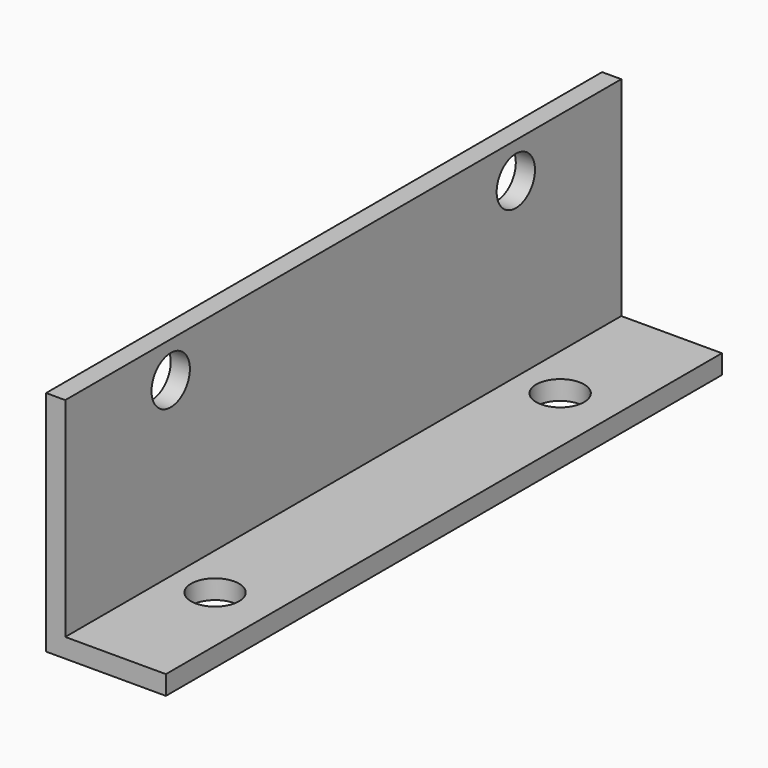
from build123d import *

# Parameters (mm, degrees)
F0_W     = 5.08
F0_H     = 55.245
F1_DEPTH = 184.15
F2_R     = 6.35
F3_DEPTH = 25.4
F4_R     = 6.35
F5_DEPTH = 25.4


with BuildPart() as f1:
    # F0 (on Front) → F1 (new body)
    with BuildSketch(Plane.XZ):
        Polygon((26.67, 0), (0, 0), (-5.08, 0), (-5.08, -5.08), (26.67, -5.08), align=None)
        with Locations((-2.54, 27.6225)):
            Rectangle(F0_W, F0_H)
    extrude(amount=F1_DEPTH)

    # F2 (on face) → F3 (cut)
    with BuildSketch(Plane.YZ):
        with Locations((-149.225, 45.72)):
            Circle(F2_R)
        with Locations((-34.925, 45.72)):
            Circle(F2_R)
    extrude(amount=-F3_DEPTH, mode=Mode.SUBTRACT)

    # F4 (on face) → F5 (cut)
    with BuildSketch(Plane.XY):
        with Locations((11.7475, -149.225)):
            Circle(F4_R)
        with Locations((11.7475, -34.925)):
            Circle(F4_R)
    extrude(amount=-F5_DEPTH, mode=Mode.SUBTRACT)


solid = f1.part
